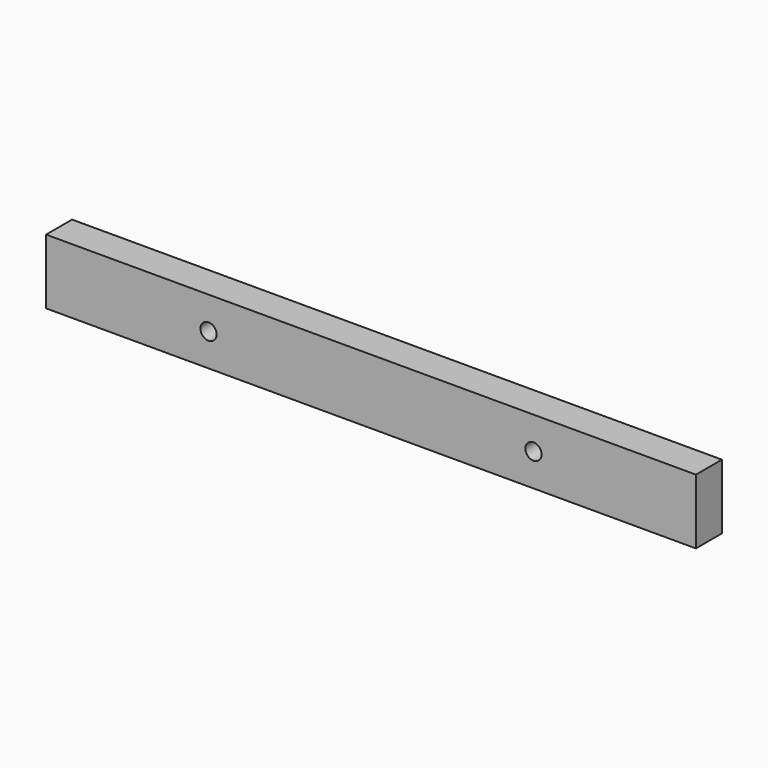
from build123d import *

# Parameters (mm, degrees)
F0_W          = 12.7
F0_H          = 25.4
F1_DEPTH      = 127
F1_DEPTH_BACK = 127
F3_D          = 6.35


with BuildPart() as f1:
    # F0 (on Right) → F1 (new body, two sides)
    with BuildSketch(Plane.YZ) as f1_sk:
        with Locations((6.35, 12.7)):
            Rectangle(F0_W, F0_H)
    extrude(amount=F1_DEPTH)
    extrude(f1_sk.sketch, amount=-F1_DEPTH_BACK)

    # F3 (through all)
    with Locations(Plane.XZ):
        with Locations((-63.5, 12.7), (63.5, 12.7)):
            Hole(F3_D / 2)


solid = f1.part
